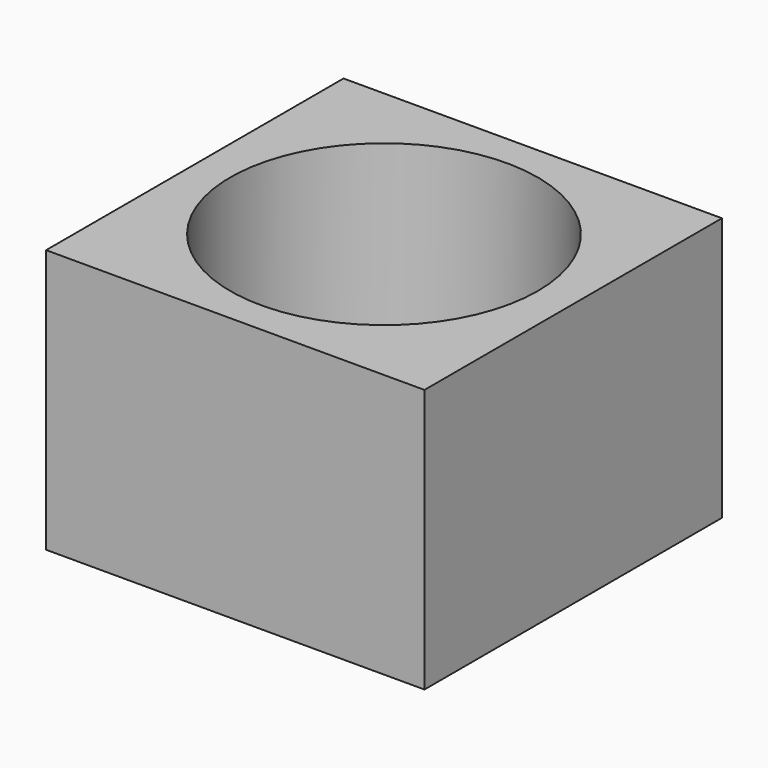
from build123d import *

# Parameters (mm, degrees)
F2_W     = 182.185948
F2_H     = 179.023266
F2_R     = 74.0561
F3_DEPTH = 127


with BuildPart() as f3:
    # F2 (on face) → F3 (new body)
    with BuildSketch(Plane.XY):
        Rectangle(F2_W, F2_H)
        Circle(F2_R, mode=Mode.SUBTRACT)
    extrude(amount=F3_DEPTH)


solid = f3.part
